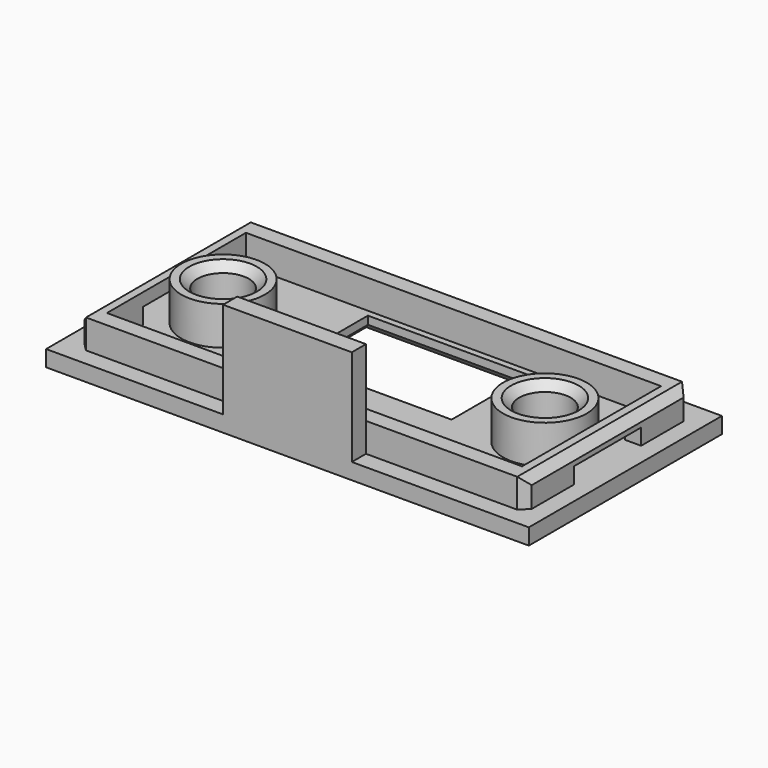
from build123d import *

# Parameters (mm, degrees)
SKETCH_W        = 30
SKETCH_H        = 15
PAD_DEPTH       = 1
SKETCH001_W     = 27.8
SKETCH001_H     = 12.8
SKETCH001_W_2   = 25.8
SKETCH001_H_2   = 10.8
PAD001_DEPTH    = 1.8
SKETCH002_W     = 8
SKETCH002_H     = 1.1
PAD002_DEPTH    = 6
SKETCH003_W     = 5.2
SKETCH003_H     = 1
POCKET_DEPTH    = 28.901
SKETCH004_R     = 2.6
SKETCH004_R_2   = 1.6
PAD003_DEPTH    = 2.4
SKETCH005_W     = 10
SKETCH005_H     = 6
POCKET001_DEPTH = 5
CHAMFER_SIZE    = 0.5
CHAMFER001_SIZE = 0.5
CHAMFER002_SIZE = 0.5


with BuildPart() as part:
    # Sketch → Pad (new body)
    with BuildSketch(Plane.XY):
        Rectangle(SKETCH_W, SKETCH_H)
    extrude(amount=PAD_DEPTH)

    # Sketch001 → Pad001 (new body)
    with BuildSketch(Plane.XY.offset(1)):
        Rectangle(SKETCH001_W, SKETCH001_H)
        Rectangle(SKETCH001_W_2, SKETCH001_H_2, mode=Mode.SUBTRACT)
    extrude(amount=PAD001_DEPTH)

    # Sketch002 → Pad002 (new body)
    with BuildSketch(Plane.XY.offset(1)):
        with Locations((0, -6.95)):
            Rectangle(SKETCH002_W, SKETCH002_H)
    extrude(amount=PAD002_DEPTH)

    # Sketch003 → Pocket (cut, through all)
    with BuildSketch(Plane(origin=(-13.9, 0, 0), x_dir=(0, -1, 0), z_dir=(-1, 0, 0))):
        with Locations((0, 1.5)):
            Rectangle(SKETCH003_W, SKETCH003_H)
    extrude(amount=-POCKET_DEPTH, mode=Mode.SUBTRACT)

    # Sketch004 → Pad003 (new body)
    with BuildSketch(Plane.XY.offset(1)):
        with Locations((-10, 0)):
            Circle(SKETCH004_R)
        with Locations((-10, 0)):
            Circle(SKETCH004_R_2, mode=Mode.SUBTRACT)
        with Locations((10, 0)):
            Circle(SKETCH004_R)
        with Locations((10, 0)):
            Circle(SKETCH004_R_2, mode=Mode.SUBTRACT)
    extrude(amount=PAD003_DEPTH)

    # Sketch005 → Pocket001 (cut)
    with BuildSketch(Plane(origin=(0, 0, 0), x_dir=(1, 0, 0), z_dir=(0, 0, -1))):
        with Locations((0, -2)):
            Rectangle(SKETCH005_W, SKETCH005_H)
    extrude(amount=-POCKET001_DEPTH, mode=Mode.SUBTRACT)

    # Chamfer
    chamfer_edges = [part.edges().sort_by_distance(p)[0] for p in [
        (-11.6, 0, 3.4),
        (8.4, 0, 3.4),
    ]]
    chamfer(chamfer_edges, length=CHAMFER_SIZE)

    # Chamfer001
    chamfer001_edges = [part.edges().sort_by_distance(p)[0] for p in [
        (-13.9, 6.4, 1.9),
        (-13.9, 0, 2.8),
        (-13.9, -6.4, 1.9),
        (13.9, 6.4, 1.9),
        (13.9, 0, 2.8),
        (13.9, -6.4, 1.9),
    ]]
    chamfer(chamfer001_edges, length=CHAMFER001_SIZE)

    # Chamfer002
    chamfer002_edges = [part.edges().sort_by_distance(p)[0] for p in [
        (-5, 2, 0),
        (0, 5, 0),
        (5, 2, 0),
        (0, -1, 0),
    ]]
    chamfer(chamfer002_edges, length=CHAMFER002_SIZE)


solid = part.part
